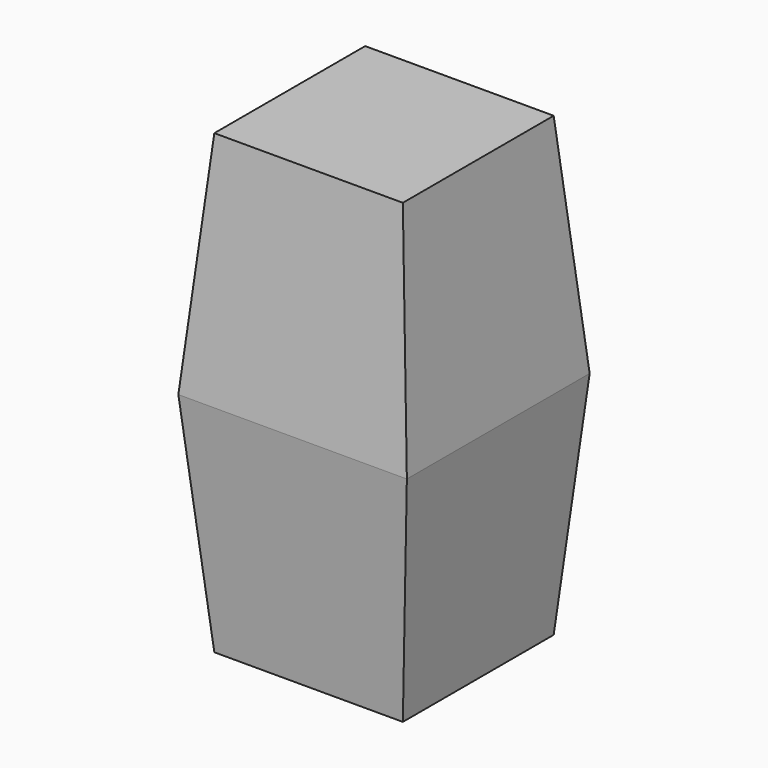
from build123d import *

# Parameters (mm, degrees)
F0_W     = 63.5
F0_H     = 63.5
F1_DEPTH = 63.5
F1_TAPER = 5


with BuildPart() as f1:
    # F0 (on Top) → F1 (new body, symmetric)
    with BuildSketch(Plane.XY):
        Rectangle(F0_W, F0_H)
    extrude(amount=F1_DEPTH, both=True, taper=F1_TAPER)


solid = f1.part
